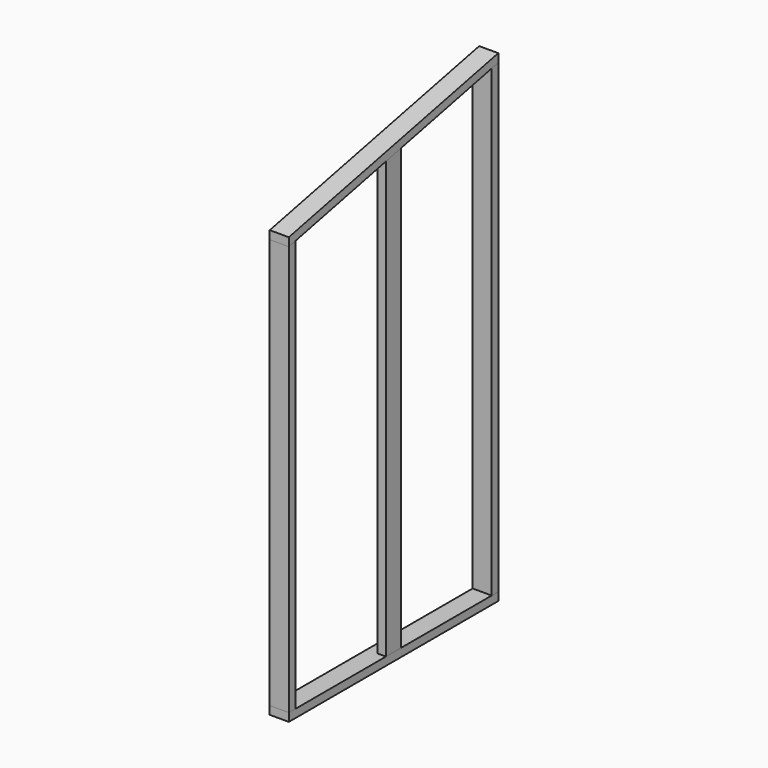
from build123d import *

# Parameters (mm, degrees)
F1_W     = 88.9
F1_H     = 1219.2
F2_DEPTH = 38.1
F3_W     = 88.9
F3_H     = 38.1
F3_W_2   = 38.1
F3_H_2   = 88.9
F4_DEPTH = 2540
F6_DEPTH = 88.901
F8_DEPTH = 88.9


with BuildPart() as f2:
    # F1 (on Top) → F2 (new body)
    with BuildSketch(Plane.XY):
        with Locations((44.45, 698.5)):
            Rectangle(F1_W, F1_H)
    extrude(amount=F2_DEPTH)


with BuildPart() as f4:
    # F3 (on face) → F4 (new body)
    with BuildSketch(Plane.XY.offset(38.1)):
        with Locations((44.45, 107.95)):
            Rectangle(F3_W, F3_H)
        with Locations((44.45, 1289.05)):
            Rectangle(F3_W, F3_H)
        with Locations((69.85, 698.5)):
            Rectangle(F3_W_2, F3_H_2)
    extrude(amount=F4_DEPTH)

    # F5 (on Right) → F6 (cut, through all)
    with BuildSketch(Plane.YZ):
        Polygon((1308.1, 2578.1), (88.9, 2578.1), (88.9, 1948.445102), (1308.1, 2207.594062), align=None)
    extrude(amount=F6_DEPTH, mode=Mode.SUBTRACT)


with BuildPart() as f8:
    # F7 (on Right) → F8 (new body)
    with BuildSketch(Plane.YZ):
        Polygon((88.9, 1987.396278), (88.9, 1948.445102), (1308.1, 2207.594062), (1308.1, 2246.545238), align=None)
    extrude(amount=F8_DEPTH)


solid = Compound([f2.part, f4.part, f8.part])
